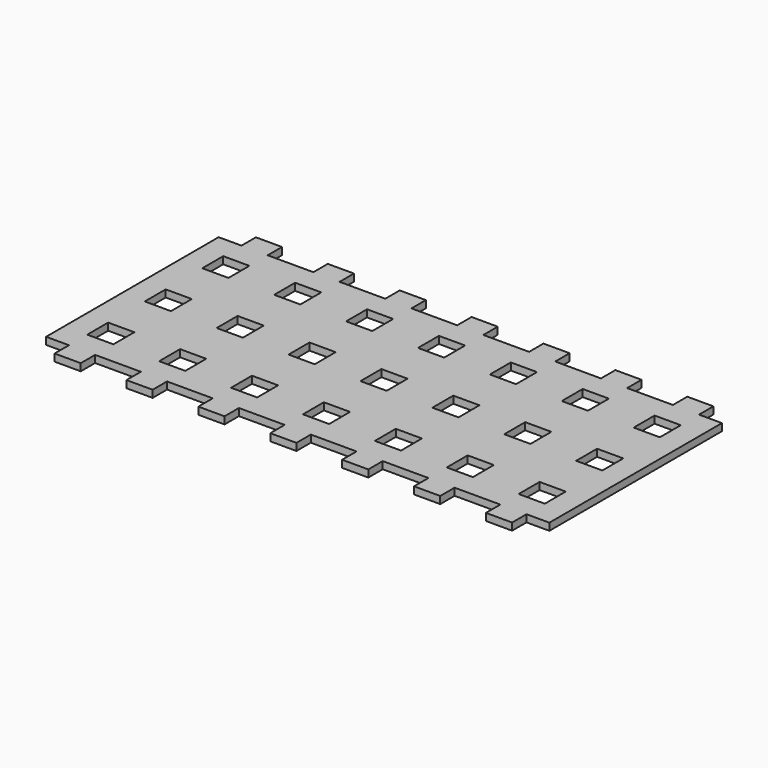
from build123d import *

# Parameters (mm, degrees)
F0_W     = 4.6228
F0_H     = 4.6228
F1_DEPTH = 1.27


with BuildPart() as f1:
    # F0 (on Top) → F1 (new body)
    with BuildSketch(Plane.XY):
        Polygon((78.031066, -39.672382), (78.031066, -1.572382), (73.992466, -1.572382), (73.992466, 1.602618), (69.369666, 1.602618), (69.369666, -1.572382), (61.292466, -1.572382), (61.292466, 1.602618), (56.669666, 1.602618), (56.669666, -1.572382), (48.592466, -1.572382), (48.592466, 1.602618), (43.969666, 1.602618), (43.969666, -1.572382), (35.892466, -1.572382), (35.892466, 1.602618), (31.269666, 1.602618), (31.269666, -1.572382), (23.192466, -1.572382), (23.192466, 1.602618), (18.569666, 1.602618), (18.569666, -1.572382), (10.492466, -1.572382), (10.492466, 1.602618), (5.869666, 1.602618), (5.869666, -1.572382), (-2.207534, -1.572382), (-2.207534, 1.602618), (-6.830334, 1.602618), (-6.830334, -1.572382), (-10.868934, -1.572382), (-10.868934, -33.322382), (-10.868934, -39.672382), (-6.830334, -39.672382), (-6.830334, -42.847382), (-2.207534, -42.847382), (-2.207534, -39.672382), (5.869666, -39.672382), (5.869666, -42.847382), (10.492466, -42.847382), (10.492466, -39.672382), (18.569666, -39.672382), (18.569666, -42.847382), (23.192466, -42.847382), (23.192466, -39.672382), (31.269666, -39.672382), (31.269666, -42.847382), (35.892466, -42.847382), (35.892466, -39.672382), (43.969666, -39.672382), (43.969666, -42.847382), (48.592466, -42.847382), (48.592466, -39.672382), (56.669666, -39.672382), (56.669666, -42.847382), (61.292466, -42.847382), (61.292466, -39.672382), (69.369666, -39.672382), (69.369666, -42.847382), (73.992466, -42.847382), (73.992466, -39.672382), align=None)
        with Locations((-4.518934, -33.322382)):
            Rectangle(F0_W, F0_H, mode=Mode.SUBTRACT)
        with Locations((8.181066, -33.322382)):
            Rectangle(F0_W, F0_H, mode=Mode.SUBTRACT)
        with Locations((20.881066, -33.322382)):
            Rectangle(F0_W, F0_H, mode=Mode.SUBTRACT)
        with Locations((33.581066, -33.322382)):
            Rectangle(F0_W, F0_H, mode=Mode.SUBTRACT)
        with Locations((46.281066, -33.322382)):
            Rectangle(F0_W, F0_H, mode=Mode.SUBTRACT)
        with Locations((58.981066, -33.322382)):
            Rectangle(F0_W, F0_H, mode=Mode.SUBTRACT)
        with Locations((71.681066, -33.322382)):
            Rectangle(F0_W, F0_H, mode=Mode.SUBTRACT)
        with Locations((-4.518934, -20.622382)):
            Rectangle(F0_W, F0_H, mode=Mode.SUBTRACT)
        with Locations((8.181066, -20.622382)):
            Rectangle(F0_W, F0_H, mode=Mode.SUBTRACT)
        with Locations((20.881066, -20.622382)):
            Rectangle(F0_W, F0_H, mode=Mode.SUBTRACT)
        with Locations((-4.518934, -7.922382)):
            Rectangle(F0_W, F0_H, mode=Mode.SUBTRACT)
        with Locations((8.181066, -7.922382)):
            Rectangle(F0_W, F0_H, mode=Mode.SUBTRACT)
        with Locations((20.881066, -7.922382)):
            Rectangle(F0_W, F0_H, mode=Mode.SUBTRACT)
        with Locations((33.581066, -20.622382)):
            Rectangle(F0_W, F0_H, mode=Mode.SUBTRACT)
        with Locations((46.281066, -20.622382)):
            Rectangle(F0_W, F0_H, mode=Mode.SUBTRACT)
        with Locations((58.981066, -20.622382)):
            Rectangle(F0_W, F0_H, mode=Mode.SUBTRACT)
        with Locations((71.681066, -20.622382)):
            Rectangle(F0_W, F0_H, mode=Mode.SUBTRACT)
        with Locations((33.581066, -7.922382)):
            Rectangle(F0_W, F0_H, mode=Mode.SUBTRACT)
        with Locations((46.281066, -7.922382)):
            Rectangle(F0_W, F0_H, mode=Mode.SUBTRACT)
        with Locations((58.981066, -7.922382)):
            Rectangle(F0_W, F0_H, mode=Mode.SUBTRACT)
        with Locations((71.681066, -7.922382)):
            Rectangle(F0_W, F0_H, mode=Mode.SUBTRACT)
    extrude(amount=F1_DEPTH)


solid = f1.part
